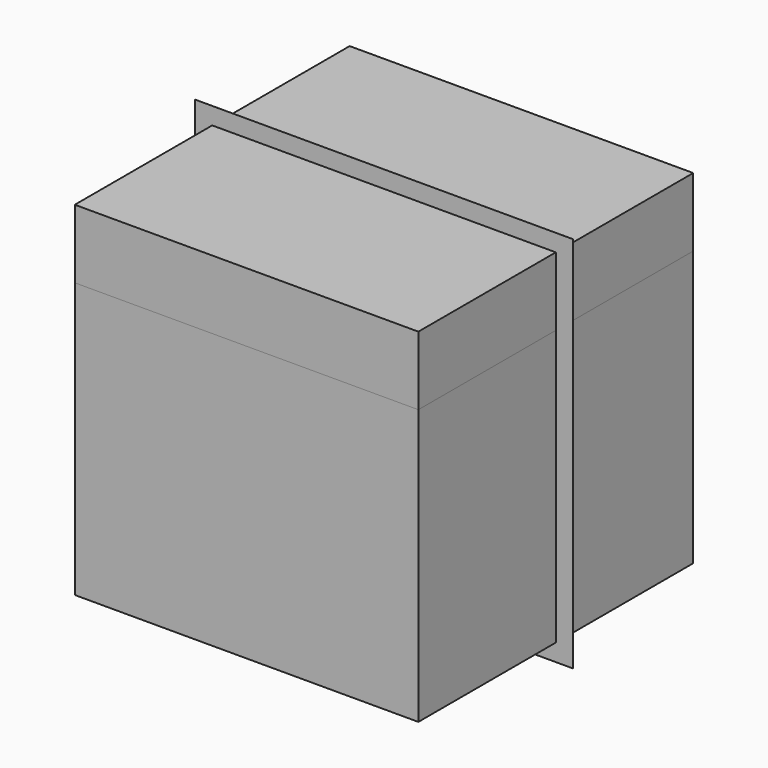
from build123d import *

# Parameters (mm, degrees)
CASE_LIMITS_W     = 110
CASE_LIMITS_H     = 0.001
CASE_LIMITS_DEPTH = 110
BOX_W             = 100
BOX_H             = 100
BOX_DEPTH         = 100
BOX001_W          = 100
BOX001_H          = 100
BOX001_DEPTH      = 80


with BuildPart() as case_limits_2d:
    # Case_Limits → Case_Limits (new body)
    with BuildSketch(Plane(origin=(-5, 0, -5), x_dir=(1, 0, 0), z_dir=(0, 0, 1))):
        with Locations((55, 0.0005)):
            Rectangle(CASE_LIMITS_W, CASE_LIMITS_H)
    extrude(amount=CASE_LIMITS_DEPTH)


with BuildPart() as tank:
    # Box → Box (new body)
    with BuildSketch(Plane(origin=(0, -50, 0), x_dir=(1, 0, 0), z_dir=(0, 0, 1))):
        with Locations((50, 50)):
            Rectangle(BOX_W, BOX_H)
    extrude(amount=BOX_DEPTH)


with BuildPart() as water:
    # Box001 → Box001 (new body)
    with BuildSketch(Plane(origin=(0, -50, 0), x_dir=(1, 0, 0), z_dir=(0, 0, 1))):
        with Locations((50, 50)):
            Rectangle(BOX001_W, BOX001_H)
    extrude(amount=BOX001_DEPTH)


solid = Compound([case_limits_2d.part, tank.part, water.part])
